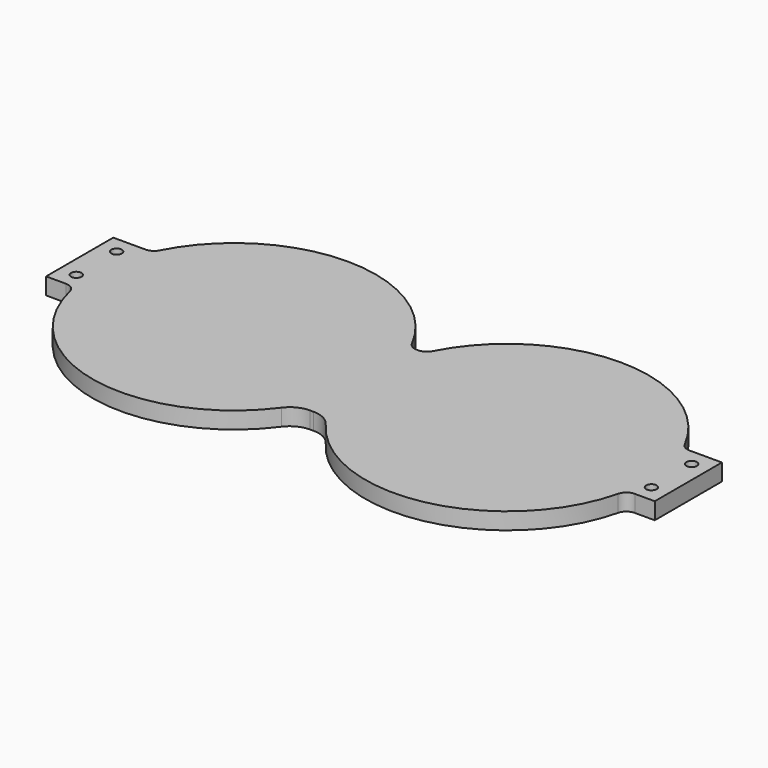
from build123d import *

# Parameters (mm, degrees)
F0_R     = 2.5
F1_DEPTH = 8
F3_R     = 12
F4_R     = 5
F5_R     = 5


with BuildPart() as f1:
    # F0 (on Top) → F1 (new body)
    with BuildSketch(Plane.XY):
        with BuildLine():
            Line((0, -35), (7.2830180969, -35))
            ThreePointArc((7.2830180969, -35), (77.2966007948, -66.3705025512), (131.4247694765, -12))
            Line((131.4247694765, -12), (145, -12))
            Line((145, -12), (145, 28))
            Line((145, 28), (126.4186453774, 28))
            ThreePointArc((126.4186453774, 28), (65, 67.5), (3.5813546226, 28))
            Line((3.5813546226, 28), (0, 28))
            Line((0, 28), (0, 0))
            Line((0, 0), (0, -35))
        make_face()
        with Locations((137, -4)):
            Circle(F0_R, mode=Mode.SUBTRACT)
        with Locations((137, 20)):
            Circle(F0_R, mode=Mode.SUBTRACT)
    extrude(amount=F1_DEPTH)

    # F2: F1 across face


with BuildPart() as f1_1:
    add(f1.part)
    add(f1.part.mirror(Plane(origin=(0, -3.5, 4), x_dir=(0, -1, 0), z_dir=(-1, 0, 0))))

    # F3
    f3_edges = [f1_1.edges().sort_by_distance(p)[0] for p in [
        (7.283018, -35, 4),
        (-7.283018, -35, 4),
    ]]
    fillet(f3_edges, radius=F3_R)

    # F4
    f4_edges = [f1_1.edges().sort_by_distance(p)[0] for p in [
        (131.424769, -12, 4),
        (126.418645, 28, 4),
        (-126.418645, 28, 4),
        (-131.424769, -12, 4),
    ]]
    fillet(f4_edges, radius=F4_R)

    # F5
    f5_edges = [f1_1.edges().sort_by_distance(p)[0] for p in [
        (-3.581355, 28, 4),
        (3.581355, 28, 4),
    ]]
    fillet(f5_edges, radius=F5_R)


solid = f1_1.part
